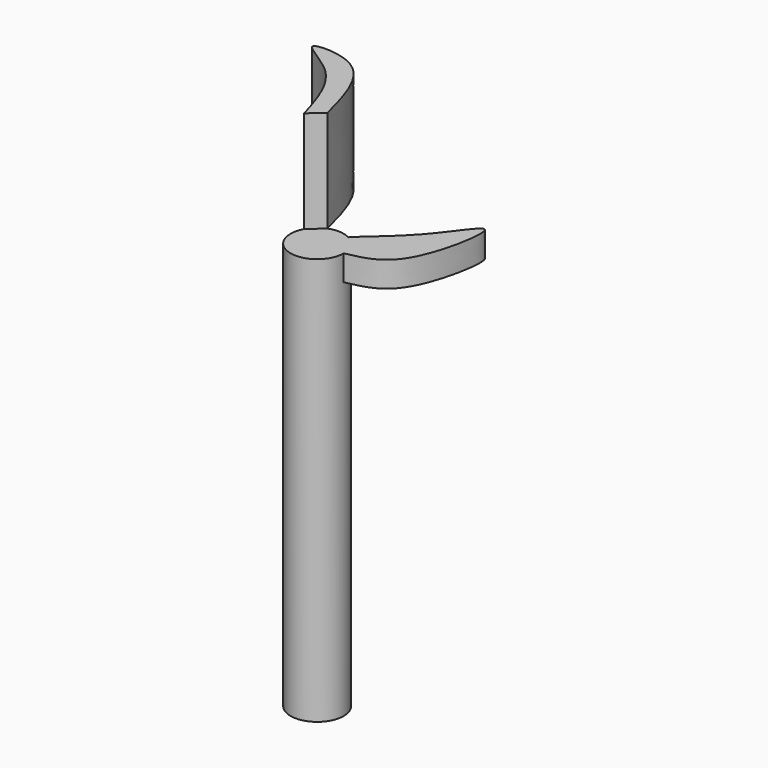
from build123d import *

# Parameters (mm, degrees)
F0_R     = 6.6235911541
F1_DEPTH = 101.6
F3_DEPTH = 6.35
F5_DEPTH = 25.4


with BuildPart() as f1:
    # F0 (on Top) → F1 (new body)
    with BuildSketch(Plane.XY):
        Circle(F0_R)
    extrude(amount=F1_DEPTH)

    # F2 (on face) → F3 (join)
    with BuildSketch(Plane.XY.offset(101.6)):
        with BuildLine():
            add(Edge.make_bspline(
                [(6.6235911541, 0), (5.551680706, 1.8932174639), (4.479770258, 3.7864349279), (3.4078598099, 5.6796523918)],
                knots=[0, 0, 0, 0, 6.5268200044, 6.5268200044, 6.5268200044, 6.5268200044], degree=3))
            add(Edge.make_bspline(
                [(6.6235911541, 0), (10.6438451154, 0.791578321), (19.6252509449, 2.5614891614), (24.720472144, 33.055623675), (14.2402206799, 14.3946295862), (2.2576603735, 5.8922725708), (3.2810318143, 5.7102540128), (3.4078598099, 5.6796523918)],
                knots=[0, 0, 0, 0, 0.2248148306, 0.5021455592, 0.7272668847, 0.9650867645, 1, 1, 1, 1], degree=3))
        make_face()
    extrude(amount=-F3_DEPTH)

    # F4 (on face) → F5 (join)
    with BuildSketch(Plane.XY.offset(101.6)):
        with BuildLine():
            add(Edge.make_bspline(
                [(-2.3887054213, 6.1778674465), (-3.5262124604, 5.1840844593), (-4.6637194994, 4.1903014722), (-5.8012265385, 3.196518485)],
                knots=[0, 0, 0, 0, 4.5314172183, 4.5314172183, 4.5314172183, 4.5314172183], degree=3))
            add(Edge.make_bspline(
                [(-2.3887054213, 6.1778674465), (-4.426021623, 14.1012351506), (-7.8619234541, 27.4696107491), (-27.4083253283, 27.3979748293), (-10.8731149842, 20.4682153567), (-7.6584856542, 9.5188311305), (-5.8012265385, 3.196518485)],
                knots=[0, 0, 0, 0, 0.3023102368, 0.5086767242, 0.7161566123, 1, 1, 1, 1], degree=3))
        make_face()
    extrude(amount=F5_DEPTH)


solid = f1.part
